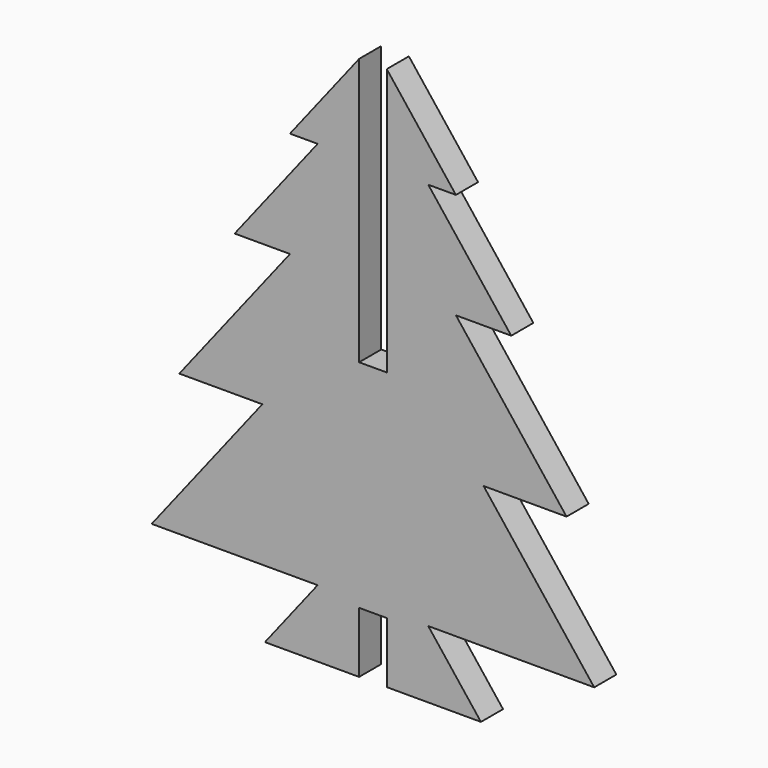
from build123d import *

# Parameters (mm, degrees)
F0_W     = 10.004756
F0_H     = 12.166546
F1_DEPTH = 5
F2_W     = 2.5
F2_H     = 11
F3_DEPTH = 25


with BuildPart() as f1:
    # F0 (on Front) → F1 (new body)
    with BuildSketch(Plane.XZ):
        Polygon((-33.23122, 64.085848), (-13.221708, 64.085848), (-8.21933, 64.085848), (-23.226464, 83.25016), (-38.233598, 64.085848), align=None)
        Polygon((-38.233598, 44.921537), (-23.226464, 44.921537), (-8.21933, 44.921537), (1.785427, 44.921537), (-13.221708, 64.085848), (-33.23122, 64.085848), (-48.238355, 44.921537), align=None)
        Polygon((-43.235977, 19.369121), (-23.226464, 19.369121), (-23.226464, 44.921537), (-38.233598, 44.921537), (-58.243111, 19.369121), align=None)
        Polygon((-23.226464, 44.921537), (-23.226464, 19.369121), (-3.216951, 19.369121), (11.790183, 19.369121), (-8.21933, 44.921537), align=None)
        Polygon((-33.23122, -6.183294), (-23.226464, -6.183294), (-23.226464, 19.369121), (-43.235977, 19.369121), (-63.245489, -6.183294), (-48.238355, -6.183294), align=None)
        Polygon((-23.226464, 19.369121), (-23.226464, -6.183294), (-13.221708, -6.183294), (1.785427, -6.183294), (16.792561, -6.183294), (-3.216951, 19.369121), align=None)
        Polygon((-42.758565, -18.34984), (-33.23122, -18.34984), (-33.23122, -6.183294), align=None)
        with Locations((-28.228842, -12.266567)):
            Rectangle(F0_W, F0_H)
        with Locations((-18.224086, -12.266567)):
            Rectangle(F0_W, F0_H)
        Polygon((-13.221708, -6.183294), (-13.221708, -18.34984), (-3.694363, -18.34984), align=None)
    extrude(amount=F1_DEPTH)

    # F2 (on face) → F3 (cut)
    with BuildSketch(Plane.XZ.offset(5)):
        Polygon((-23.226464, 83.25016), (-25.726464, 80.057626), (-25.726464, 31.75016), (-23.226464, 31.75016), align=None)
        with Locations((-24.476464, -12.84984)):
            Rectangle(F2_W, F2_H)
        with Locations((-21.976464, -12.84984)):
            Rectangle(F2_W, F2_H)
        Polygon((-20.726464, 31.75016), (-20.726464, 80.057626), (-23.226464, 83.25016), (-23.226464, 31.75016), align=None)
    extrude(amount=-F3_DEPTH, mode=Mode.SUBTRACT)


solid = f1.part
